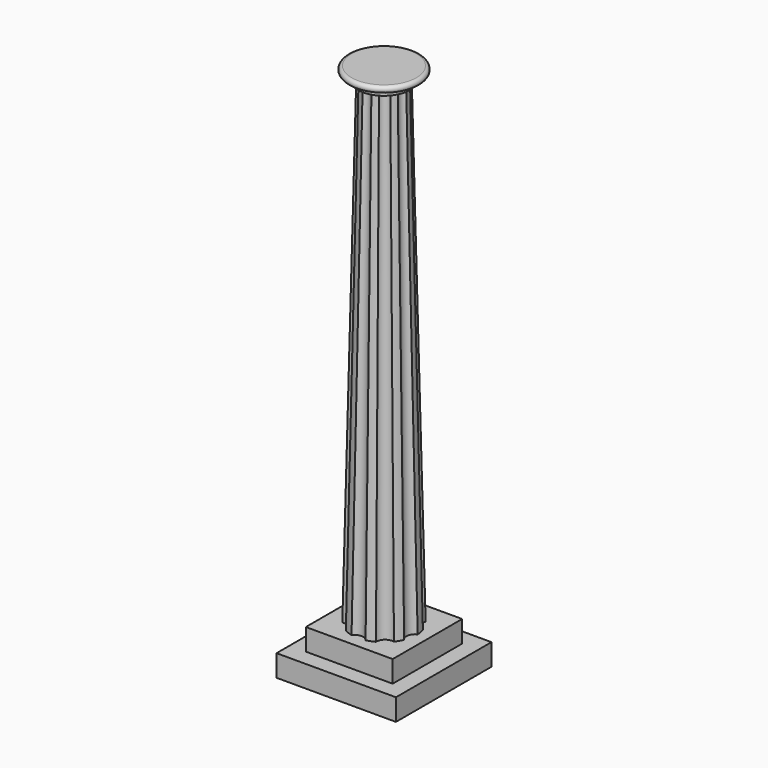
from build123d import *

# Parameters (mm, degrees)
F0_W     = 69.85
F0_H     = 69.85
F1_DEPTH = 12.7
F2_W     = 50.8
F2_H     = 50.8
F3_DEPTH = 12.7


with BuildPart() as f1:
    # F0 (on Top) → F1 (new body)
    with BuildSketch(Plane.XY):
        Rectangle(F0_W, F0_H)
    extrude(amount=F1_DEPTH)

    # F2 (on face) → F3 (join)
    with BuildSketch(Plane.XY.offset(12.7)):
        Rectangle(F2_W, F2_H)
    extrude(amount=F3_DEPTH)

    # F4 (on face) → F7 section 0
    with BuildSketch(Plane.XY.offset(25.4)):
        with BuildLine():
            ThreePointArc((17.60579, -7.275895), (16.259176, -2.866931), (19.032534, 0.81557))
            ThreePointArc((19.032534, 0.81557), (18.760588, 3.307998), (18.163673, 5.743125))
            ThreePointArc((18.163673, 5.743125), (14.298079, 8.255), (14.055529, 12.85864))
            ThreePointArc((14.055529, 12.85864), (12.245104, 14.593147), (10.222571, 16.074873))
            ThreePointArc((10.222571, 16.074873), (5.646753, 15.514325), (2.501785, 18.885009))
            ThreePointArc((2.501785, 18.885009), (0, 19.05), (-2.501785, 18.885009))
            ThreePointArc((-2.501785, 18.885009), (-5.646753, 15.514325), (-10.222571, 16.074873))
            ThreePointArc((-10.222571, 16.074873), (-12.245104, 14.593147), (-14.055529, 12.85864))
            ThreePointArc((-14.055529, 12.85864), (-14.298079, 8.255), (-18.163673, 5.743125))
            ThreePointArc((-18.163673, 5.743125), (-18.760588, 3.307998), (-19.032534, 0.81557))
            ThreePointArc((-19.032534, 0.81557), (-16.259176, -2.866931), (-17.60579, -7.275895))
            ThreePointArc((-17.60579, -7.275895), (-16.497784, -9.525), (-15.104005, -11.609114))
            ThreePointArc((-15.104005, -11.609114), (-10.612423, -12.647394), (-8.809963, -16.890443))
            ThreePointArc((-8.809963, -16.890443), (-6.515484, -17.901144), (-4.108144, -18.601765))
            ThreePointArc((-4.108144, -18.601765), (0, -16.51), (4.108144, -18.601765))
            ThreePointArc((4.108144, -18.601765), (6.515484, -17.901144), (8.809963, -16.890443))
            ThreePointArc((8.809963, -16.890443), (10.612423, -12.647394), (15.104005, -11.609114))
            ThreePointArc((15.104005, -11.609114), (16.497784, -9.525), (17.60579, -7.275895))
        make_face()
    # F6 (on offset) → F7 section 1
    with BuildSketch(Plane.XY.offset(304.8)):
        with BuildLine():
            ThreePointArc((11.798684, -4.699048), (11.256353, -1.984799), (12.694305, 0.380274))
            ThreePointArc((12.694305, 0.380274), (12.507058, 2.205332), (12.058806, 3.984368))
            ThreePointArc((12.058806, 3.984368), (9.89867, 5.715), (9.479967, 8.451049))
            ThreePointArc((9.479967, 8.451049), (8.163403, 9.728764), (6.676479, 10.803454))
            ThreePointArc((6.676479, 10.803454), (3.90929, 10.740687), (1.829847, 12.567484))
            ThreePointArc((1.829847, 12.567484), (0, 12.7), (-1.829847, 12.567484))
            ThreePointArc((-1.829847, 12.567484), (-3.90929, 10.740687), (-6.676479, 10.803454))
            ThreePointArc((-6.676479, 10.803454), (-8.163403, 9.728764), (-9.479967, 8.451049))
            ThreePointArc((-9.479967, 8.451049), (-9.89867, 5.715), (-12.058806, 3.984368))
            ThreePointArc((-12.058806, 3.984368), (-12.507058, 2.205332), (-12.694305, 0.380274))
            ThreePointArc((-12.694305, 0.380274), (-11.256353, -1.984799), (-11.798684, -4.699048))
            ThreePointArc((-11.798684, -4.699048), (-10.998523, -6.35), (-9.968837, -7.868436))
            ThreePointArc((-9.968837, -7.868436), (-7.347062, -8.755888), (-6.017826, -11.183728))
            ThreePointArc((-6.017826, -11.183728), (-4.343656, -11.934096), (-2.578839, -12.435417))
            ThreePointArc((-2.578839, -12.435417), (0, -11.43), (2.578839, -12.435417))
            ThreePointArc((2.578839, -12.435417), (4.343656, -11.934096), (6.017826, -11.183728))
            ThreePointArc((6.017826, -11.183728), (7.347062, -8.755888), (9.968837, -7.868436))
            ThreePointArc((9.968837, -7.868436), (10.998523, -6.35), (11.798684, -4.699048))
        make_face()
    loft()

    # F9 (on Front) → F10 (revolve)
    with BuildSketch(Plane.XZ):
        with BuildLine():
            Line((0, 304.8), (15.164565, 304.8))
            Line((15.164565, 304.8), (15.164565, 308.61))
            Line((15.164565, 308.61), (18.974565, 308.61))
            ThreePointArc((18.974565, 308.61), (20.879565, 310.515), (18.974565, 312.42))
            Line((18.974565, 312.42), (0, 312.42))
            Line((0, 312.42), (0, 304.8))
        make_face()
    revolve(axis=Axis((0, 0, 308.61), (0, 0, -1)))


solid = f1.part
